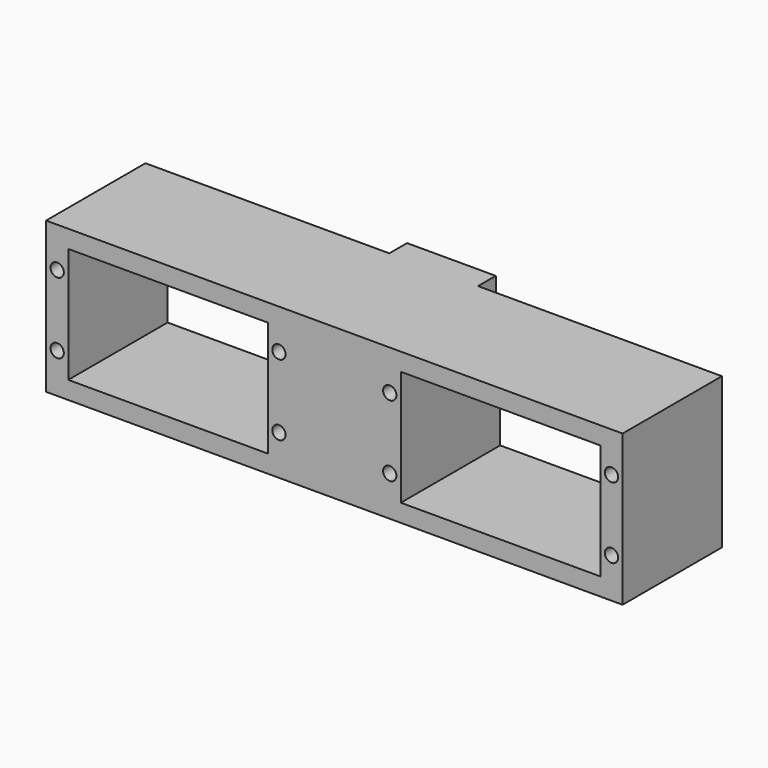
from build123d import *

# Parameters (mm, degrees)
F0_W     = 55
F0_H     = 34
F0_W_2   = 45
F0_H_2   = 26
F0_W_3   = 20
F1_DEPTH = 14
F2_R     = 1.5
F3_DEPTH = 30
F4_W     = 20
F4_H     = 34
F5_DEPTH = 5


with BuildPart() as f1:
    # F0 (on Front) → F1 (new body, symmetric)
    with BuildSketch(Plane.XZ):
        Rectangle(F0_W, F0_H)
        Rectangle(F0_W_2, F0_H_2, mode=Mode.SUBTRACT)
        with Locations((37.5, 0)):
            Rectangle(F0_W_3, F0_H)
        with Locations((75, 0)):
            Rectangle(F0_W, F0_H)
        with Locations((75, 0)):
            Rectangle(F0_W_2, F0_H_2, mode=Mode.SUBTRACT)
    extrude(amount=F1_DEPTH, both=True)

    # F2 (on face) → F3 (cut)
    with BuildSketch(Plane.XZ.offset(14)):
        with Locations((25, 8)):
            Circle(F2_R)
        with Locations((-25, 8)):
            Circle(F2_R)
        with Locations((-25, -8)):
            Circle(F2_R)
        with Locations((25, -8)):
            Circle(F2_R)
        with Locations((50, 8)):
            Circle(F2_R)
        with Locations((50, -8)):
            Circle(F2_R)
        with Locations((100, 8)):
            Circle(F2_R)
        with Locations((100, -8)):
            Circle(F2_R)
    extrude(amount=-F3_DEPTH, mode=Mode.SUBTRACT)

    # F4 (on face) → F5 (join)
    with BuildSketch(Plane(origin=(0, 14, 0), x_dir=(-1, 0, 0), z_dir=(0, 1, 0))):
        with Locations((-37.5, 0)):
            Rectangle(F4_W, F4_H)
    extrude(amount=F5_DEPTH)


solid = f1.part
